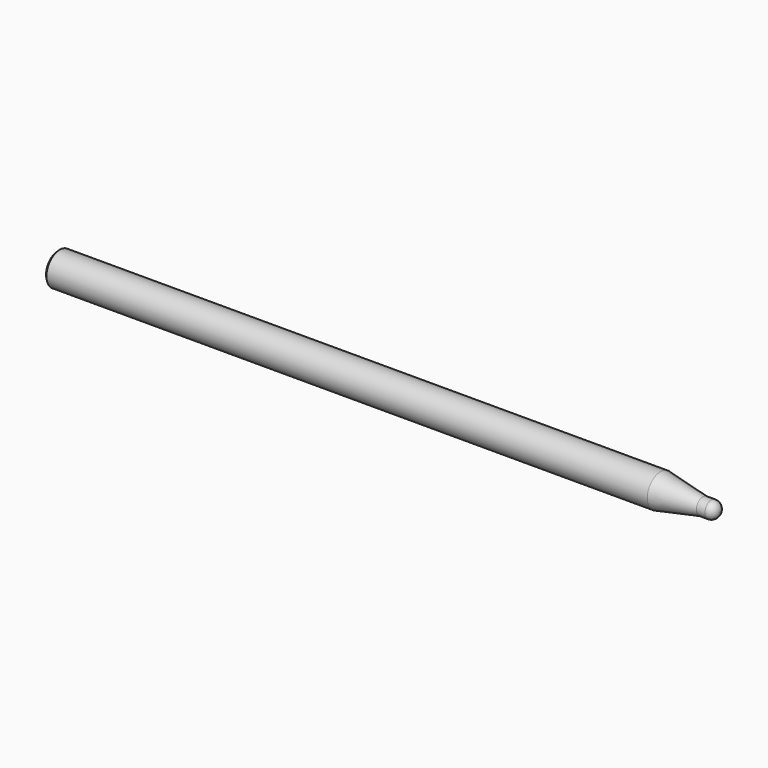
from build123d import *

# Parameters (mm, degrees)
F2_R    = 3.048
F3_SIZE = 0.762


with BuildPart() as f1:
    # F0 (on Top) → F1 (revolve)
    with BuildSketch(Plane.XY):
        Polygon((-219.829988, 6.35), (-219.829988, 0), (34.170012, 0), (34.170012, 3.175), (27.820012, 3.175), (11.563331, 6.35), align=None)
    revolve(axis=Axis((-92.829988, 0, 0), (-1, 0, 0)))

    # F2
    f2_edges = [f1.edges().sort_by_distance(p)[0] for p in [
        (34.170012, -3.175, 0),
    ]]
    fillet(f2_edges, radius=F2_R)

    # F3
    f3_edges = [f1.edges().sort_by_distance(p)[0] for p in [
        (-219.829988, -6.35, 0),
    ]]
    chamfer(f3_edges, length=F3_SIZE)


solid = f1.part
